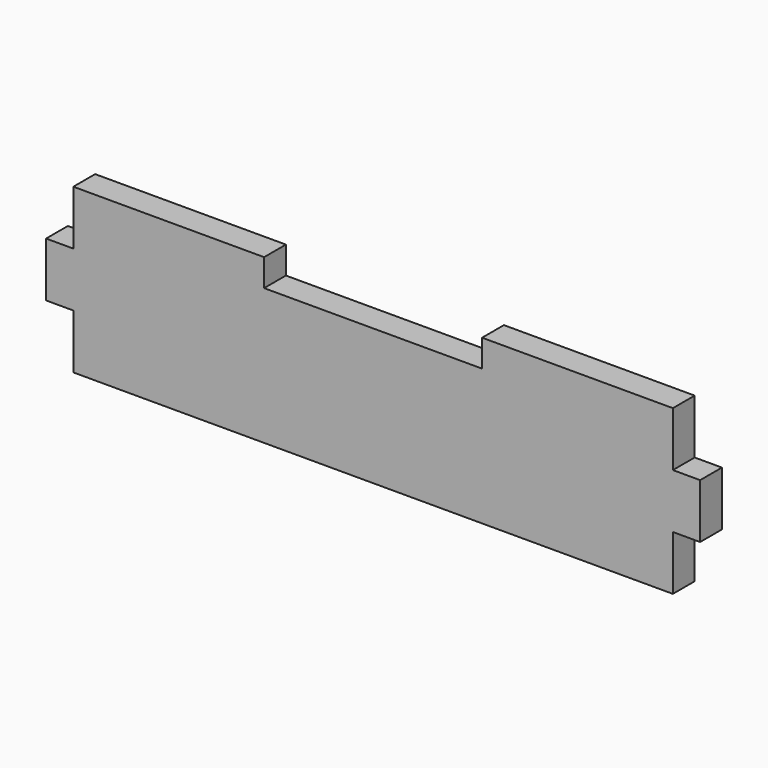
from build123d import *

# Parameters (mm, degrees)
F0_W     = 3.175
F0_H     = 6.35
F1_DEPTH = 3.175


with BuildPart() as f1:
    # F0 (on Front) → F1 (new body)
    with BuildSketch(Plane.XZ):
        Polygon((-34.925, -9.525), (34.925, -9.525), (34.925, -3.175), (34.925, 3.175), (34.925, 9.525), (12.7, 9.525), (12.7, 6.35), (-12.7, 6.35), (-12.7, 9.525), (-34.925, 9.525), (-34.925, 3.175), (-34.925, -3.175), align=None)
        with Locations((-36.5125, 0)):
            Rectangle(F0_W, F0_H)
        with Locations((36.5125, 0)):
            Rectangle(F0_W, F0_H)
    extrude(amount=F1_DEPTH)


solid = f1.part
